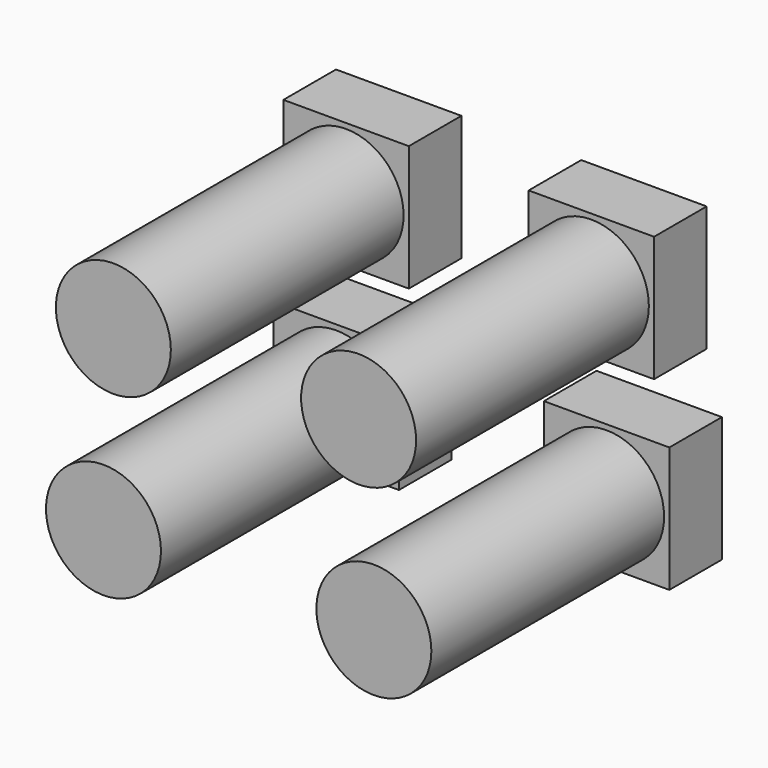
from build123d import *

# Parameters (mm, degrees)
F0_W     = 166.225975
F0_H     = 166.225975
F0_R     = 76.2
F1_DEPTH = 87.122
F2_DEPTH = 472.694


with BuildPart() as f1:
    # F0 (on Front) → F1 (new body)
    with BuildSketch(Plane.XZ):
        with Locations((-152.974857, 108.158693)):
            Rectangle(F0_W, F0_H)
        with Locations((-152.974858, 108.158693)):
            Circle(F0_R, mode=Mode.SUBTRACT)
        with Locations((-166.080866, -131.086642)):
            Rectangle(F0_W, F0_H)
        with Locations((-166.080866, -131.086643)):
            Circle(F0_R, mode=Mode.SUBTRACT)
        with Locations((192.274796, -131.086642)):
            Rectangle(F0_W, F0_H)
        with Locations((192.274795, -131.086643)):
            Circle(F0_R, mode=Mode.SUBTRACT)
        with Locations((172.054114, 108.158693)):
            Rectangle(F0_W, F0_H)
        with Locations((172.054115, 108.158693)):
            Circle(F0_R, mode=Mode.SUBTRACT)
    extrude(amount=F1_DEPTH)


with BuildPart() as f2:
    # F0 (on Front) → F2 (new body)
    with BuildSketch(Plane.XZ):
        with Locations((-166.080866, -131.086643)):
            Circle(F0_R)
        with Locations((-152.974858, 108.158693)):
            Circle(F0_R)
        with Locations((172.054115, 108.158693)):
            Circle(F0_R)
        with Locations((192.274795, -131.086643)):
            Circle(F0_R)
    extrude(amount=F2_DEPTH)


solid = Compound([f1.part, f2.part])
